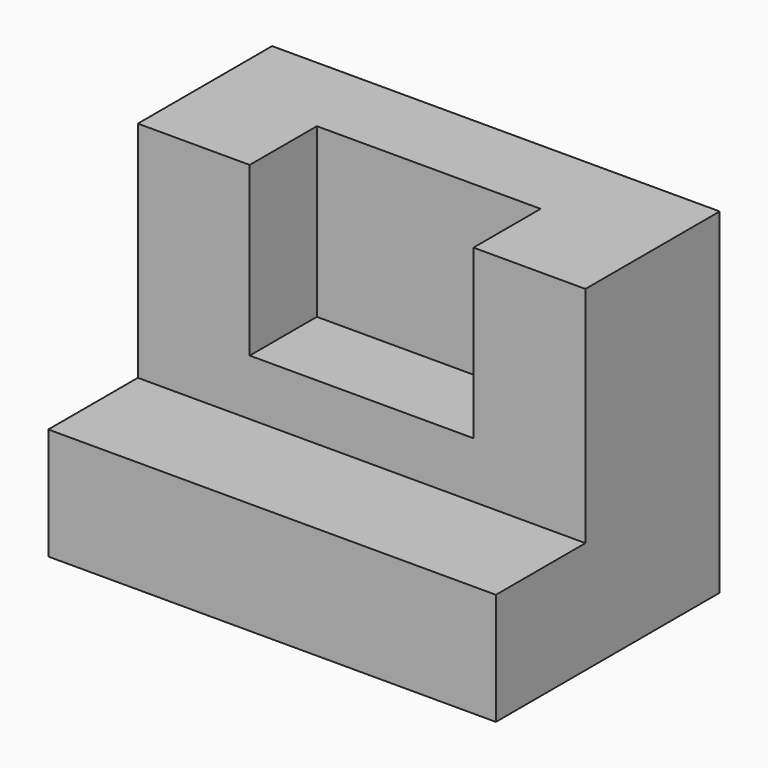
from build123d import *

# Parameters (mm, degrees)
F1_DEPTH = 101.6
F3_DEPTH = 19.05


with BuildPart() as f1:
    # F0 (on Right) → F1 (new body)
    with BuildSketch(Plane.YZ):
        Polygon((26.560439, 35.177996), (-11.539561, 35.177996), (-11.539561, -15.622004), (-36.939561, -15.622004), (-36.939561, -41.022004), (26.560439, -41.022004), align=None)
    extrude(amount=-F1_DEPTH)

    # F2 (on face) → F3 (cut)
    with BuildSketch(Plane.XZ.offset(11.539561)):
        Polygon((-76.2, 35.177996), (-76.2, 16.167367), (-76.2, -2.922004), (-25.4, -2.922004), (-25.4, 35.177996), align=None)
    extrude(amount=-F3_DEPTH, mode=Mode.SUBTRACT)


solid = f1.part
